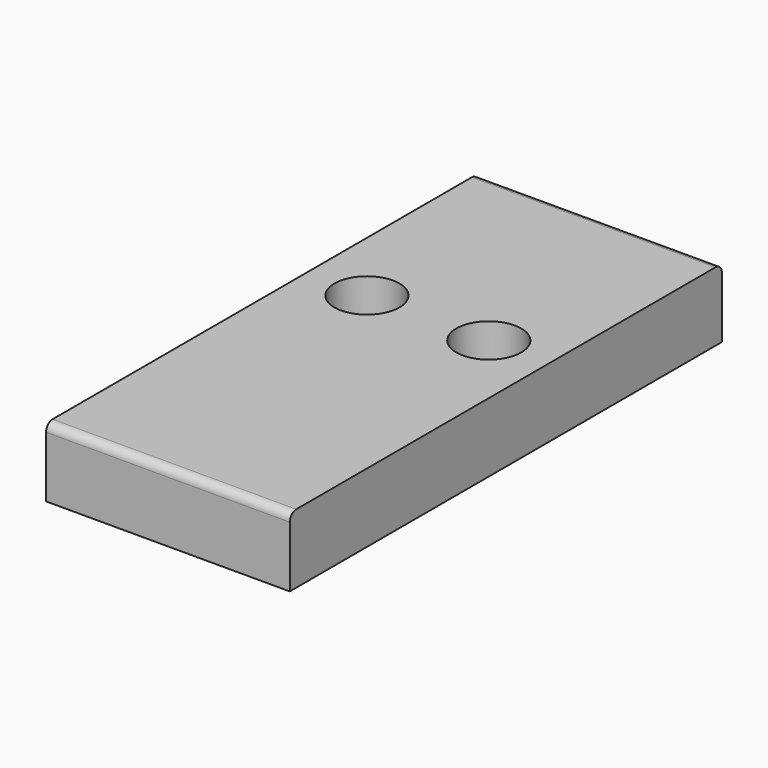
from build123d import *

# Parameters (mm, degrees)
SKETCH_W     = 30
SKETCH_H     = 66.5
SKETCH_R     = 1.6
PAD_DEPTH    = 8.5
SKETCH001_R  = 4
POCKET_DEPTH = 5
FILLET_R     = 1


with BuildPart() as part:
    # Sketch → Pad (new body)
    with BuildSketch(Plane.XY):
        with Locations((15, 33.25)):
            Rectangle(SKETCH_W, SKETCH_H)
        with Locations((7.5, 40)):
            Circle(SKETCH_R, mode=Mode.SUBTRACT)
        with Locations((22.5, 40)):
            Circle(SKETCH_R, mode=Mode.SUBTRACT)
    extrude(amount=PAD_DEPTH)

    # Sketch001 (on Face8 of Pad) → Pocket (cut)
    with BuildSketch(Plane.XY.offset(8.5)):
        with Locations((7.5, 40)):
            Circle(SKETCH001_R)
        with Locations((22.5, 40)):
            Circle(SKETCH001_R)
    extrude(amount=-POCKET_DEPTH, mode=Mode.SUBTRACT)

    # Fillet
    fillet_edges = [part.edges().sort_by_distance(p)[0] for p in [
        (15, 66.5, 8.5),
        (15, 0, 8.5),
    ]]
    fillet(fillet_edges, radius=FILLET_R)


solid = part.part
